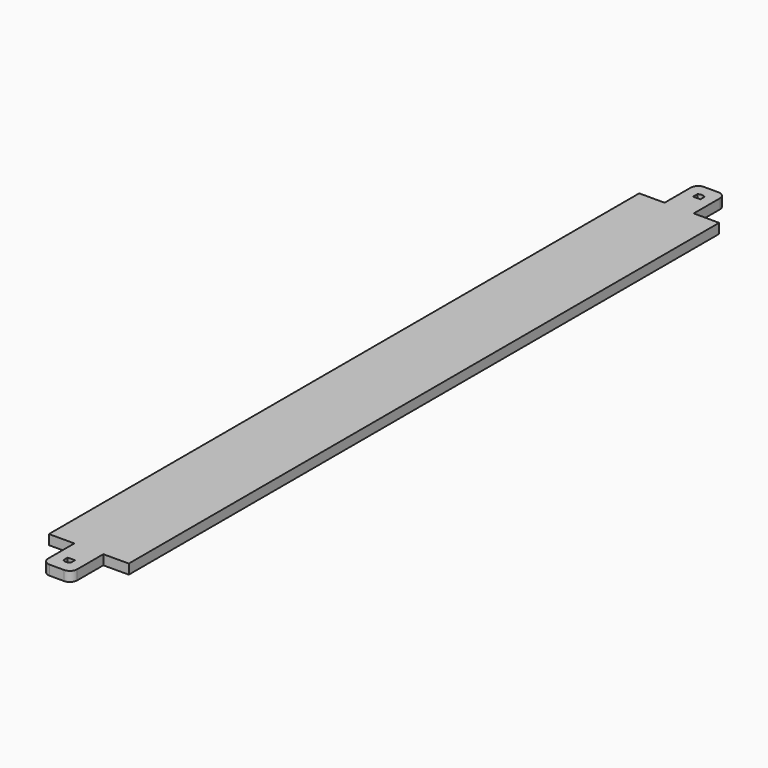
from build123d import *

# Parameters (mm, degrees)
F1_DEPTH = 27


with BuildPart() as f1:
    # F0 (on Top) → F1 (new body)
    with BuildSketch(Plane.XY):
        with BuildLine():
            Line((70, 1016), (0, 1016))
            Line((0, 1016), (0, 0))
            Line((0, 0), (220, 0))
            Line((220, 0), (220, 1016))
            Line((220, 1016), (150.000581, 1016.285126))
            Line((150.000581, 1016.285126), (150.000581, 1106.285126))
            ThreePointArc((150.000581, 1106.285126), (144.142716, 1120.427261), (130.000581, 1126.285126))
            Line((130.000581, 1126.285126), (90, 1126.285126))
            ThreePointArc((90, 1126.285126), (75.857864, 1120.427261), (70, 1106.285126))
            Line((70, 1106.285126), (70, 1016))
        make_face()
        with BuildLine():
            Line((120.00029, 1076.285126), (110.00029, 1076.285126))
            Line((110.00029, 1076.285126), (100.00029, 1076.285126))
            Line((100.00029, 1076.285126), (100.00029, 1091.285126))
            ThreePointArc((100.00029, 1091.285126), (110.00029, 1094.271711), (120.00029, 1091.285126))
            Line((120.00029, 1091.285126), (120.00029, 1076.285126))
        make_face(mode=Mode.SUBTRACT)
        with BuildLine():
            Line((220, 0), (0, 0))
            Line((0, 0), (0, -1016))
            Line((0, -1016), (70, -1016))
            Line((70, -1016), (70, -1106.285126))
            ThreePointArc((70, -1106.285126), (75.857864, -1120.427261), (90, -1126.285126))
            Line((90, -1126.285126), (130.000581, -1126.285126))
            ThreePointArc((130.000581, -1126.285126), (144.142716, -1120.427261), (150.000581, -1106.285126))
            Line((150.000581, -1106.285126), (150.000581, -1016.285126))
            Line((150.000581, -1016.285126), (220, -1016))
            Line((220, -1016), (220, 0))
        make_face()
        with BuildLine():
            Line((120.00029, -1076.285126), (120.00029, -1091.285126))
            ThreePointArc((120.00029, -1091.285126), (110.00029, -1094.271711), (100.00029, -1091.285126))
            Line((100.00029, -1091.285126), (100.00029, -1076.285126))
            Line((100.00029, -1076.285126), (110.00029, -1076.285126))
            Line((110.00029, -1076.285126), (120.00029, -1076.285126))
        make_face(mode=Mode.SUBTRACT)
    extrude(amount=F1_DEPTH)


solid = f1.part
